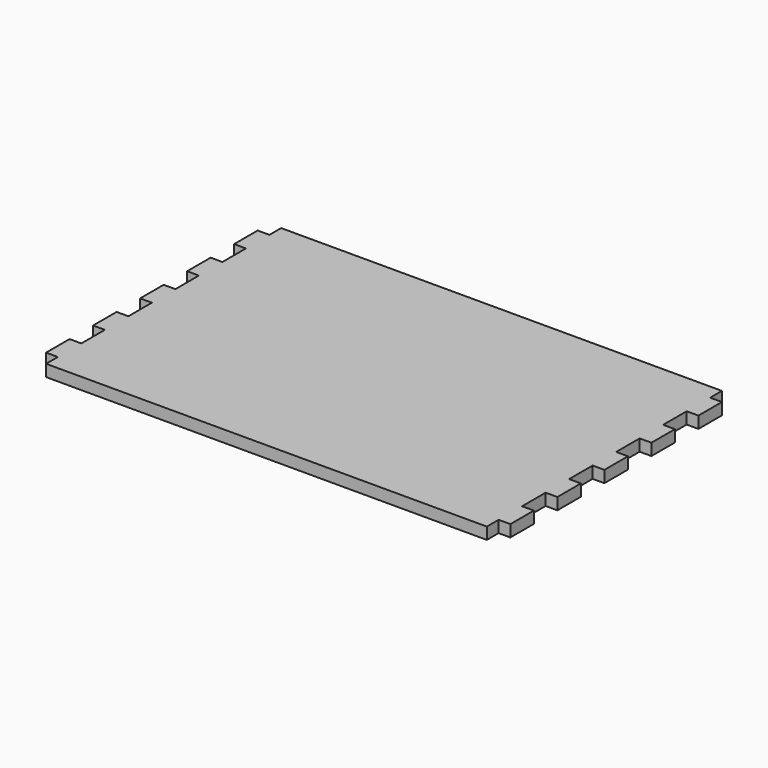
from build123d import *

# Parameters (mm, degrees)
F0_W     = 150
F0_H     = 100
F1_DEPTH = 4
F2_W     = 4
F2_H     = 10
F3_DEPTH = 4


with BuildPart() as f1:
    # F0 (on Top) → F1 (new body)
    with BuildSketch(Plane.XY):
        Rectangle(F0_W, F0_H)
    extrude(amount=F1_DEPTH)

    # F2 (on face) → F3 (join)
    with BuildSketch(Plane.XY.offset(4)):
        with Locations((-77, -40)):
            Rectangle(F2_W, F2_H)
        with Locations((-77, -20)):
            Rectangle(F2_W, F2_H)
        with Locations((-77, 0)):
            Rectangle(F2_W, F2_H)
        with Locations((-77, 20)):
            Rectangle(F2_W, F2_H)
        with Locations((-77, 40)):
            Rectangle(F2_W, F2_H)
        with Locations((77, -40)):
            Rectangle(F2_W, F2_H)
        with Locations((77, -20)):
            Rectangle(F2_W, F2_H)
        with Locations((77, 0)):
            Rectangle(F2_W, F2_H)
        with Locations((77, 40)):
            Rectangle(F2_W, F2_H)
        with Locations((77, 20)):
            Rectangle(F2_W, F2_H)
    extrude(amount=-F3_DEPTH)


solid = f1.part
